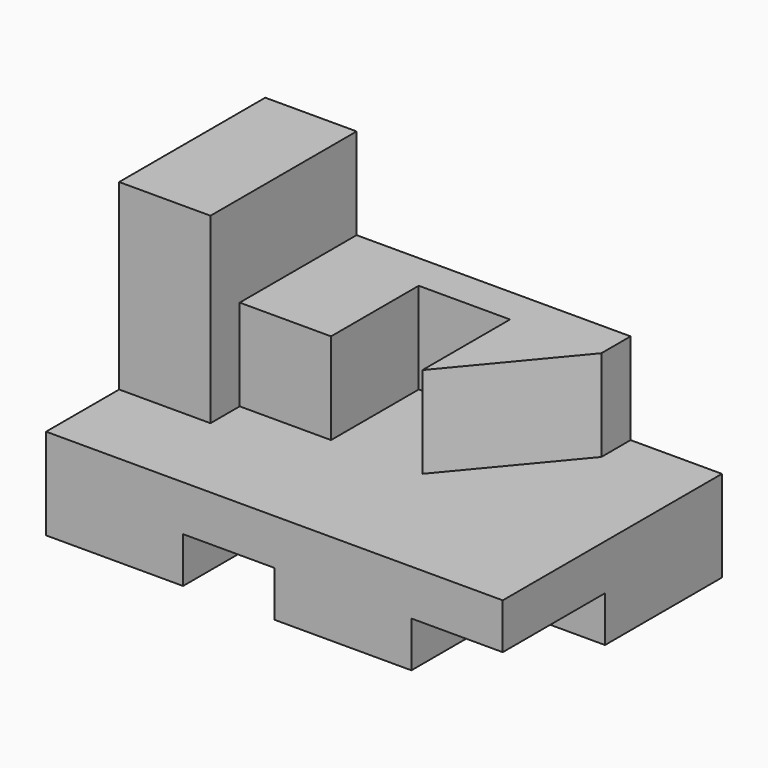
from build123d import *

# Parameters (mm, degrees)
F1_DEPTH = 95.25
F2_W     = 63.5
F2_H     = 31.75
F3_DEPTH = 101.6
F5_START = -63.5
F4_W     = 63.5
F4_H     = 127
F5_DEPTH = 127
F7_START = -63.5
F7_DEPTH = 76.2


with BuildPart() as f1:
    # F0 (on Front) → F1 (new body, symmetric)
    with BuildSketch(Plane.XZ):
        Polygon((0, 63.5), (0, 0), (95.25, 0), (95.25, 31.75), (158.75, 31.75), (158.75, 0), (254, 0), (254, 31.75), (317.5, 31.75), (317.5, 63.5), align=None)
    extrude(amount=F1_DEPTH, both=True)

    # F2 (on face) → F3 (join)
    with BuildSketch(Plane(origin=(0, 95.25, 0), x_dir=(-1, 0, 0), z_dir=(0, 1, 0))):
        with Locations((-285.75, 15.875)):
            Rectangle(F2_W, F2_H)
    extrude(amount=-F3_DEPTH)

    # F4 (on face) → F5 (join)
    with BuildSketch(Plane.XZ.offset(95.25).offset(F5_START)):
        with Locations((31.75, 127)):
            Rectangle(F4_W, F4_H)
    extrude(amount=-F5_DEPTH)

    # F6 (on face) → F7 (join)
    with BuildSketch(Plane.XY.offset(190.5).offset(F7_START)):
        Polygon((254, 95.25), (63.5, 95.25), (63.5, -6.35), (127, -6.35), (127, 69.85), (190.5, 69.85), (190.5, -6.35), (254, 69.85), align=None)
    extrude(amount=-F7_DEPTH)


solid = f1.part
